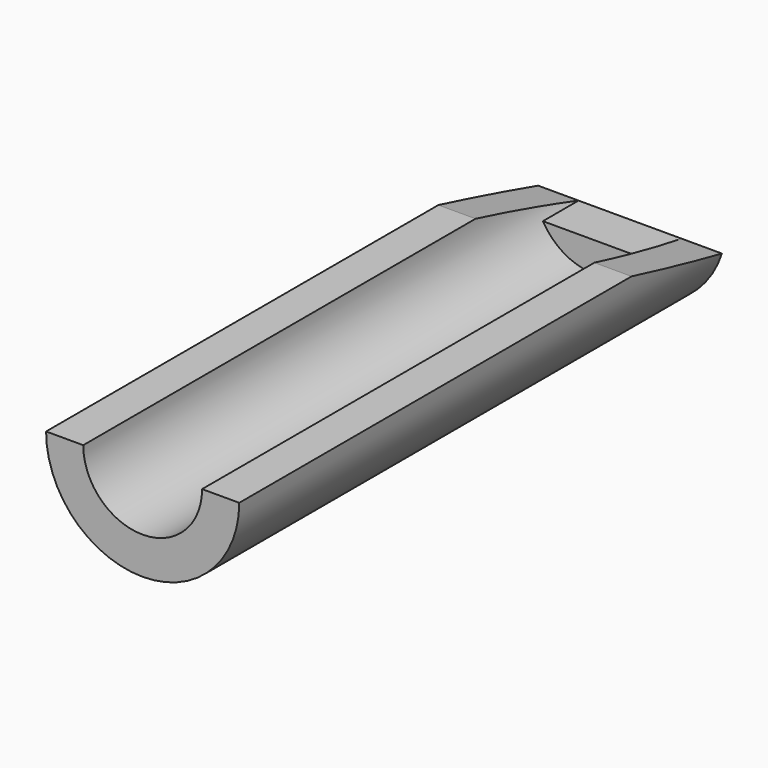
from build123d import *

# Parameters (mm, degrees)
F1_DEPTH = 8.2
F3_DEPTH = 15
F5_DEPTH = 0.6


with BuildPart() as f1:
    # F0 (on Front) → F1 (new body)
    with BuildSketch(Plane.XZ):
        with BuildLine():
            Line((1.3, 0), (0.8, 0))
            ThreePointArc((0.8, 0), (0, -0.8), (-0.8, 0))
            Line((-0.8, 0), (-1.3, 0))
            ThreePointArc((-1.3, 0), (0, -1.3), (1.3, 0))
        make_face()
    extrude(amount=F1_DEPTH)

    # F2 (on Right) → F3 (cut, symmetric)
    with BuildSketch(Plane.YZ):
        Polygon((-1.6, 0), (0, -0.4), (0, 0), align=None)
    extrude(amount=F3_DEPTH, both=True, mode=Mode.SUBTRACT)

    # F4 (on face) → F5 (join)
    with BuildSketch(Plane(origin=(0, 0, 0), x_dir=(-1, 0, 0), z_dir=(0, 1, 0))):
        with BuildLine():
            Line((0.69282, -0.4), (-0.69282, -0.4))
            ThreePointArc((-0.69282, -0.4), (0, -0.8), (0.69282, -0.4))
        make_face()
    extrude(amount=-F5_DEPTH)


solid = f1.part
